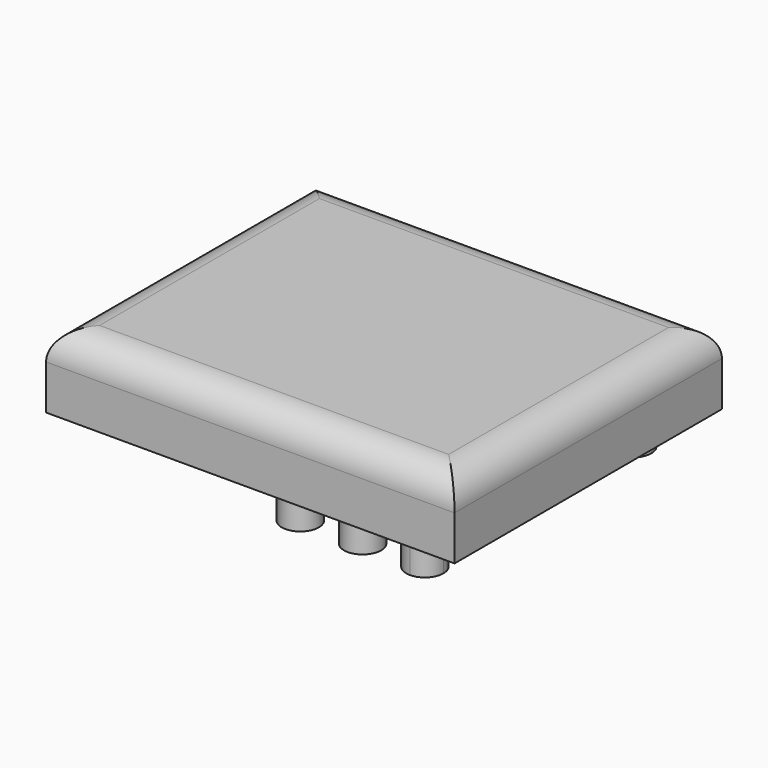
from build123d import *

# Parameters (mm, degrees)
F0_R     = 3.175
F1_DEPTH = 12.7
F2_DEPTH = 19.05
F3_R     = 5.08


with BuildPart() as f1:
    # F0 (on Top) → F1 (new body)
    with BuildSketch(Plane.XY):
        with BuildLine():
            Line((21.2967025781, 50.8), (-38.3932974219, 50.8))
            Line((-38.3932974219, 50.8), (-38.3932974219, -6.35))
            Line((-38.3932974219, -6.35), (21.2967025781, -6.35))
            Line((21.2967025781, -6.35), (21.2967025781, -3.175))
            ThreePointArc((21.2967025781, -3.175), (19.0516385478, -2.2450640303), (18.1217025781, 0))
            ThreePointArc((18.1217025781, 0), (21.2967025781, 3.175), (24.4717025781, 0))
            Line((24.4717025781, 0), (31.4567025781, 0))
            Line((31.4567025781, 0), (31.4567025781, 44.45))
            Line((31.4567025781, 44.45), (24.4717025781, 44.45))
            ThreePointArc((24.4717025781, 44.45), (21.2967025781, 41.275), (18.1217025781, 44.45))
            ThreePointArc((18.1217025781, 44.45), (19.0516385478, 46.6950640303), (21.2967025781, 47.625))
            Line((21.2967025781, 47.625), (21.2967025781, 50.8))
        make_face()
        Circle(F0_R, mode=Mode.SUBTRACT)
        with BuildLine():
            ThreePointArc((7.473351289, 0), (10.648351289, 3.175), (13.823351289, 0))
            ThreePointArc((13.823351289, 0), (10.648351289, -3.175), (7.473351289, 0))
        make_face(mode=Mode.SUBTRACT)
        with Locations((0, 44.45)):
            Circle(F0_R, mode=Mode.SUBTRACT)
        with BuildLine():
            ThreePointArc((7.473351289, 44.45), (10.648351289, 47.625), (13.823351289, 44.45))
            ThreePointArc((13.823351289, 44.45), (10.648351289, 41.275), (7.473351289, 44.45))
        make_face(mode=Mode.SUBTRACT)
        with BuildLine():
            Line((31.4567025781, 50.8), (21.2967025781, 50.8))
            Line((21.2967025781, 50.8), (21.2967025781, 47.625))
            ThreePointArc((21.2967025781, 47.625), (23.5417666083, 46.6950640303), (24.4717025781, 44.45))
            Line((24.4717025781, 44.45), (31.4567025781, 44.45))
            Line((31.4567025781, 44.45), (31.4567025781, 50.8))
        make_face()
        with BuildLine():
            Line((21.2967025781, -3.175), (21.2967025781, -6.35))
            Line((21.2967025781, -6.35), (31.4567025781, -6.35))
            Line((31.4567025781, -6.35), (31.4567025781, 0))
            Line((31.4567025781, 0), (24.4717025781, 0))
            ThreePointArc((24.4717025781, 0), (23.5417666083, -2.2450640303), (21.2967025781, -3.175))
        make_face()
    extrude(amount=-F1_DEPTH)

    # F0 (on Top) → F2 (join)
    with BuildSketch(Plane.XY):
        Circle(F0_R)
        with BuildLine():
            ThreePointArc((7.473351289, 0), (10.648351289, -3.175), (13.823351289, 0))
            Line((13.823351289, 0), (7.473351289, 0))
        make_face()
        with BuildLine():
            Line((7.473351289, 0), (13.823351289, 0))
            ThreePointArc((13.823351289, 0), (10.648351289, 3.175), (7.473351289, 0))
        make_face()
        with BuildLine():
            ThreePointArc((24.4717025781, 0), (21.2967025781, 3.175), (18.1217025781, 0))
            Line((18.1217025781, 0), (21.2967025781, 0))
            Line((21.2967025781, 0), (24.4717025781, 0))
        make_face()
        with BuildLine():
            ThreePointArc((18.1217025781, 0), (19.0516385478, -2.2450640303), (21.2967025781, -3.175))
            Line((21.2967025781, -3.175), (21.2967025781, 0))
            Line((21.2967025781, 0), (18.1217025781, 0))
        make_face()
        with BuildLine():
            Line((21.2967025781, 0), (21.2967025781, -3.175))
            ThreePointArc((21.2967025781, -3.175), (23.5417666083, -2.2450640303), (24.4717025781, 0))
            Line((24.4717025781, 0), (21.2967025781, 0))
        make_face()
        with Locations((0, 44.45)):
            Circle(F0_R)
        with BuildLine():
            ThreePointArc((7.473351289, 44.45), (10.648351289, 41.275), (13.823351289, 44.45))
            Line((13.823351289, 44.45), (7.473351289, 44.45))
        make_face()
        with BuildLine():
            Line((7.473351289, 44.45), (13.823351289, 44.45))
            ThreePointArc((13.823351289, 44.45), (10.648351289, 47.625), (7.473351289, 44.45))
        make_face()
        with BuildLine():
            ThreePointArc((24.4717025781, 44.45), (23.5417666083, 46.6950640303), (21.2967025781, 47.625))
            Line((21.2967025781, 47.625), (21.2967025781, 44.45))
            Line((21.2967025781, 44.45), (24.4717025781, 44.45))
        make_face()
        with BuildLine():
            Line((21.2967025781, 44.45), (21.2967025781, 47.625))
            ThreePointArc((21.2967025781, 47.625), (19.0516385478, 46.6950640303), (18.1217025781, 44.45))
            Line((18.1217025781, 44.45), (21.2967025781, 44.45))
        make_face()
        with BuildLine():
            ThreePointArc((18.1217025781, 44.45), (21.2967025781, 41.275), (24.4717025781, 44.45))
            Line((24.4717025781, 44.45), (21.2967025781, 44.45))
            Line((21.2967025781, 44.45), (18.1217025781, 44.45))
        make_face()
    extrude(amount=-F2_DEPTH)

    # F3
    f3_edges = [f1.edges().sort_by_distance(p)[0] for p in [
        (-38.393297, 22.225, 0),
        (-3.468297, -6.35, 0),
        (31.456703, 22.225, 0),
        (-3.468297, 50.8, 0),
    ]]
    fillet(f3_edges, radius=F3_R)


solid = f1.part
